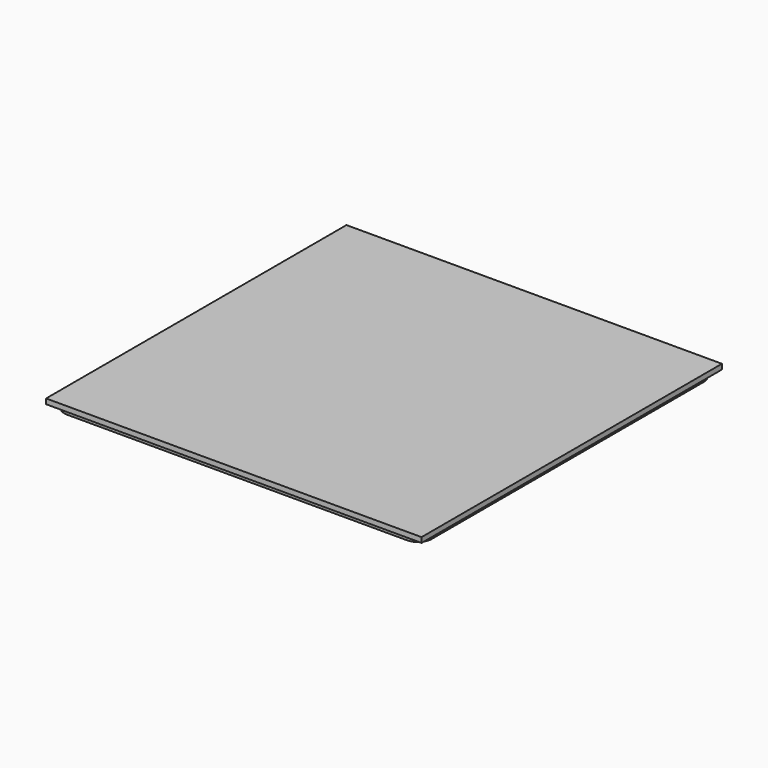
from build123d import *

# Parameters (mm, degrees)
SKETCH_W      = 110
SKETCH_H      = 110
PAD_DEPTH     = 1.5
PAD001_DEPTH  = 1.5
SKETCH002_R   = 6
SKETCH002_R_2 = 5
SKETCH002_R_3 = 1.5
PAD002_DEPTH  = 1.5


with BuildPart() as part:
    # Sketch → Pad (new body)
    with BuildSketch(Plane.XY):
        Rectangle(SKETCH_W, SKETCH_H)
    extrude(amount=PAD_DEPTH)

    # Sketch001 → Pad001 (join)
    with BuildSketch(Plane(origin=(0, 0, 0), x_dir=(1, 0, 0), z_dir=(0, 0, -1))):
        with BuildLine():
            Line((-49.8, 53.8), (49.8, 53.8))
            ThreePointArc((53.8, 49.8), (52.628427, 52.628427), (49.8, 53.8))
            Line((53.8, 49.8), (53.8, -49.8))
            ThreePointArc((49.8, -53.8), (52.628427, -52.628427), (53.8, -49.8))
            Line((49.8, -53.8), (-49.8, -53.8))
            ThreePointArc((-53.8, -49.8), (-52.628427, -52.628427), (-49.8, -53.8))
            Line((-53.8, -49.8), (-53.8, 49.8))
            ThreePointArc((-49.8, 53.8), (-52.628427, 52.628427), (-53.8, 49.8))
        make_face()
        with BuildLine():
            Line((-49.8, 52.8), (49.8, 52.8))
            ThreePointArc((52.8, 49.8), (51.92132, 51.92132), (49.8, 52.8))
            Line((52.8, 49.8), (52.8, -49.8))
            ThreePointArc((49.8, -52.8), (51.92132, -51.92132), (52.8, -49.8))
            Line((49.8, -52.8), (-49.8, -52.8))
            ThreePointArc((-52.8, -49.8), (-51.92132, -51.92132), (-49.8, -52.8))
            Line((-52.8, -49.8), (-52.8, 49.8))
            ThreePointArc((-49.8, 52.8), (-51.92132, 51.92132), (-52.8, 49.8))
        make_face(mode=Mode.SUBTRACT)
    extrude(amount=PAD001_DEPTH)

    # Sketch002 → Pad002 (join)
    with BuildSketch(Plane(origin=(0, 0, 0), x_dir=(1, 0, 0), z_dir=(0, 0, -1))):
        with Locations((-40.005, 40.005)):
            Circle(SKETCH002_R)
        with Locations((-40.005, 40.005)):
            Circle(SKETCH002_R_2, mode=Mode.SUBTRACT)
        with Locations((-40.005, 49.505)):
            Circle(SKETCH002_R_3)
        with Locations((-13.335, 40.005)):
            Circle(SKETCH002_R)
        with Locations((-13.335, 40.005)):
            Circle(SKETCH002_R_2, mode=Mode.SUBTRACT)
        with Locations((-13.335, 49.505)):
            Circle(SKETCH002_R_3)
        with Locations((13.335, 40.005)):
            Circle(SKETCH002_R)
        with Locations((13.335, 40.005)):
            Circle(SKETCH002_R_2, mode=Mode.SUBTRACT)
        with Locations((13.335, 49.505)):
            Circle(SKETCH002_R_3)
        with Locations((40.005, 40.005)):
            Circle(SKETCH002_R)
        with Locations((40.005, 40.005)):
            Circle(SKETCH002_R_2, mode=Mode.SUBTRACT)
        with Locations((40.005, 49.505)):
            Circle(SKETCH002_R_3)
        with Locations((-40.005, 13.335)):
            Circle(SKETCH002_R)
        with Locations((-40.005, 13.335)):
            Circle(SKETCH002_R_2, mode=Mode.SUBTRACT)
        with Locations((-40.005, 22.835)):
            Circle(SKETCH002_R_3)
        with Locations((-13.335, 13.335)):
            Circle(SKETCH002_R)
        with Locations((-13.335, 13.335)):
            Circle(SKETCH002_R_2, mode=Mode.SUBTRACT)
        with Locations((-13.335, 22.835)):
            Circle(SKETCH002_R_3)
        with Locations((13.335, 13.335)):
            Circle(SKETCH002_R)
        with Locations((13.335, 13.335)):
            Circle(SKETCH002_R_2, mode=Mode.SUBTRACT)
        with Locations((13.335, 22.835)):
            Circle(SKETCH002_R_3)
        with Locations((40.005, 13.335)):
            Circle(SKETCH002_R)
        with Locations((40.005, 13.335)):
            Circle(SKETCH002_R_2, mode=Mode.SUBTRACT)
        with Locations((40.005, 22.835)):
            Circle(SKETCH002_R_3)
        with Locations((-40.005, -13.335)):
            Circle(SKETCH002_R)
        with Locations((-40.005, -13.335)):
            Circle(SKETCH002_R_2, mode=Mode.SUBTRACT)
        with Locations((-40.005, -3.835)):
            Circle(SKETCH002_R_3)
        with Locations((-13.335, -13.335)):
            Circle(SKETCH002_R)
        with Locations((-13.335, -13.335)):
            Circle(SKETCH002_R_2, mode=Mode.SUBTRACT)
        with Locations((-13.335, -3.835)):
            Circle(SKETCH002_R_3)
        with Locations((13.335, -13.335)):
            Circle(SKETCH002_R)
        with Locations((13.335, -13.335)):
            Circle(SKETCH002_R_2, mode=Mode.SUBTRACT)
        with Locations((13.335, -3.835)):
            Circle(SKETCH002_R_3)
        with Locations((40.005, -13.335)):
            Circle(SKETCH002_R)
        with Locations((40.005, -13.335)):
            Circle(SKETCH002_R_2, mode=Mode.SUBTRACT)
        with Locations((40.005, -3.835)):
            Circle(SKETCH002_R_3)
        with Locations((-40.005, -40.005)):
            Circle(SKETCH002_R)
        with Locations((-40.005, -40.005)):
            Circle(SKETCH002_R_2, mode=Mode.SUBTRACT)
        with Locations((-40.005, -30.505)):
            Circle(SKETCH002_R_3)
        with Locations((-13.335, -40.005)):
            Circle(SKETCH002_R)
        with Locations((-13.335, -40.005)):
            Circle(SKETCH002_R_2, mode=Mode.SUBTRACT)
        with Locations((-13.335, -30.505)):
            Circle(SKETCH002_R_3)
        with Locations((13.335, -40.005)):
            Circle(SKETCH002_R)
        with Locations((13.335, -40.005)):
            Circle(SKETCH002_R_2, mode=Mode.SUBTRACT)
        with Locations((13.335, -30.505)):
            Circle(SKETCH002_R_3)
        with Locations((40.005, -40.005)):
            Circle(SKETCH002_R)
        with Locations((40.005, -40.005)):
            Circle(SKETCH002_R_2, mode=Mode.SUBTRACT)
        with Locations((40.005, -30.505)):
            Circle(SKETCH002_R_3)
    extrude(amount=PAD002_DEPTH)


solid = part.part
